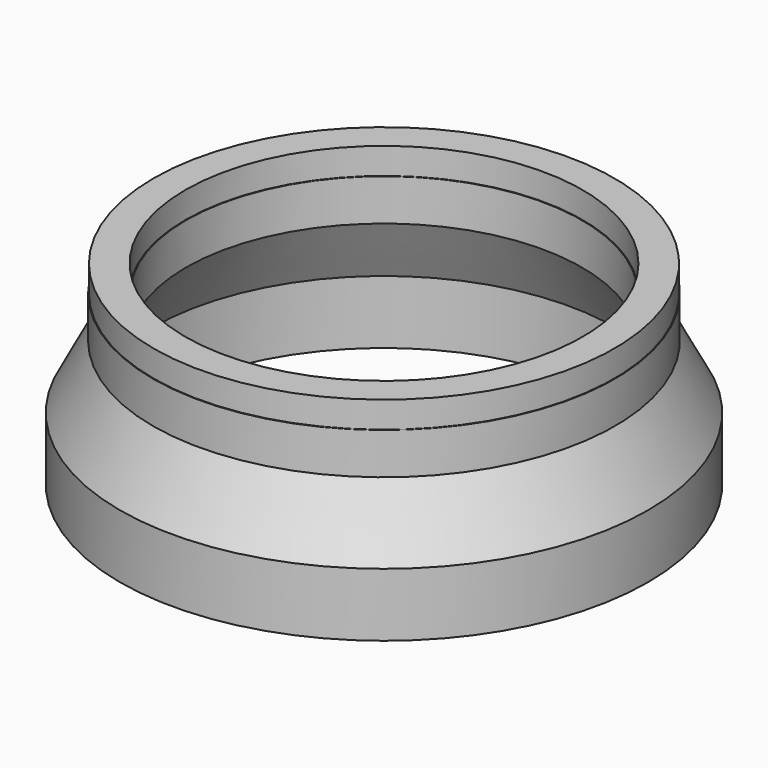
from build123d import *


with BuildPart() as f1:
    # F0 (on Front) → F1 (revolve)
    with BuildSketch(Plane.XZ):
        Polygon((-351, -258.865593), (-350, -258.865593), (-350, -162.865593), (-300, -66.865593), (-300, -3.865593), (-301, -3.865593), (-301, 36.134407), (-349, 36.134407), (-349, -3.865593), (-350, -3.865593), (-350, -66.865593), (-400, -162.865593), (-400, -258.865593), (-399, -258.865593), (-399, -218.865593), (-351, -218.865593), align=None)
    revolve(axis=Axis((0, 0, -0.829662), (0, 0, -1)))


solid = f1.part
